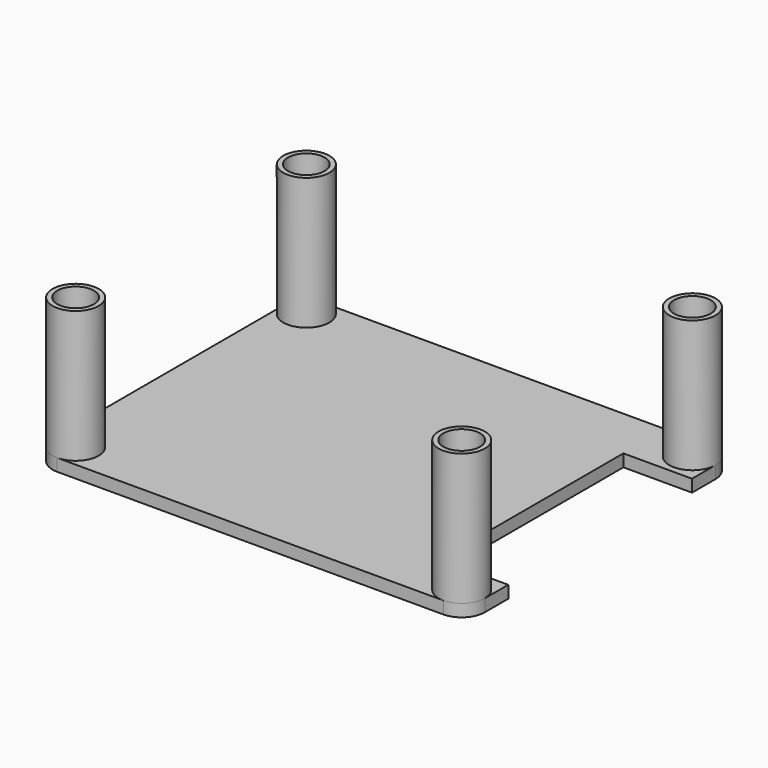
from build123d import *

# Parameters (mm, degrees)
F1_DEPTH = 2
F2_R     = 3.75
F3_DEPTH = 21.415625
F4_R     = 2.975
F5_DEPTH = 23.416625
F7_DEPTH = 2.001


with BuildPart() as f1:
    # F0 (on Top) → F1 (new body)
    with BuildSketch(Plane.XY):
        with BuildLine():
            Line((-31.3531, -27.1655), (31.3531, -27.1655))
            ThreePointArc((31.3531, -27.1655), (34.00475, -26.06715), (35.1031, -23.4155))
            Line((35.1031, -23.4155), (35.1031, 23.4155))
            ThreePointArc((35.1031, 23.4155), (34.00475, 26.06715), (31.3531, 27.1655))
            Line((31.3531, 27.1655), (-31.3531, 27.1655))
            ThreePointArc((-31.3531, 27.1655), (-34.00475, 26.06715), (-35.1031, 23.4155))
            Line((-35.1031, 23.4155), (-35.1031, -23.4155))
            ThreePointArc((-35.1031, -23.4155), (-34.00475, -26.06715), (-31.3531, -27.1655))
        make_face()
    extrude(amount=F1_DEPTH)

    # F2 (on face) → F3 (join)
    with BuildSketch(Plane.XY.offset(2)):
        with Locations((-31.3531, 23.4155)):
            Circle(F2_R)
        with Locations((31.3531, 23.4155)):
            Circle(F2_R)
        with Locations((-31.3531, -23.4155)):
            Circle(F2_R)
        with Locations((31.3531, -23.4155)):
            Circle(F2_R)
    extrude(amount=F3_DEPTH)

    # F4 (on face) → F5 (cut, through all)
    with BuildSketch(Plane.XY.offset(23.415625)):
        with Locations((-31.3531, 23.4155)):
            Circle(F4_R)
        with Locations((31.3531, 23.4155)):
            Circle(F4_R)
        with Locations((31.3531, -23.4155)):
            Circle(F4_R)
        with Locations((-31.3531, -23.4155)):
            Circle(F4_R)
    extrude(amount=-F5_DEPTH, mode=Mode.SUBTRACT)

    # F6 (on face) → F7 (cut, through all)
    with BuildSketch(Plane.XY.offset(2)):
        Polygon((23.9531, 18.653), (23.9531, 0), (23.9531, -18.653), (35.1031, -18.653), (35.1031, 18.653), align=None)
    extrude(amount=-F7_DEPTH, mode=Mode.SUBTRACT)


solid = f1.part
